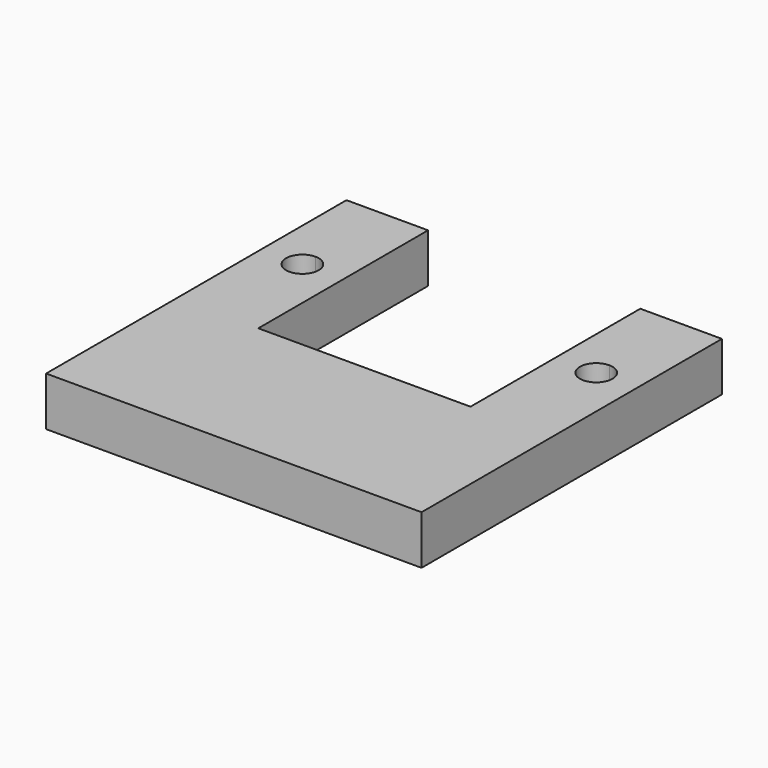
from build123d import *

# Parameters (mm, degrees)
F1_DEPTH = 7.62


with BuildPart() as f1:
    # F0 (on Top) → F1 (new body)
    with BuildSketch(Plane.XY):
        with BuildLine():
            Line((-29.210002, 48.974563), (-29.210002, 15.954563))
            Line((-29.210002, 15.954563), (-22.860002, 15.954563))
            Line((-22.860002, 15.954563), (-22.860002, 29.926767))
            ThreePointArc((-22.860002, 29.926767), (-25.397797, 32.464563), (-22.860002, 35.002358))
            Line((-22.860002, 35.002358), (-22.860002, 48.974563))
            Line((-22.860002, 48.974563), (-29.210002, 48.974563))
        make_face()
        Polygon((-22.860002, 15.954563), (-29.210002, 15.954563), (-29.210002, -9.445437), (29.209998, -9.445437), (29.209998, 15.954563), (22.859998, 15.954563), (16.509998, 15.954563), (-16.510002, 15.954563), align=None)
        with BuildLine():
            Line((-22.860002, 29.926767), (-22.860002, 15.954563))
            Line((-22.860002, 15.954563), (-16.510002, 15.954563))
            Line((-16.510002, 15.954563), (-16.510002, 48.974563))
            Line((-16.510002, 48.974563), (-22.860002, 48.974563))
            Line((-22.860002, 48.974563), (-22.860002, 35.002358))
            ThreePointArc((-22.860002, 35.002358), (-21.065509, 34.259055), (-20.322206, 32.464563))
            ThreePointArc((-20.322206, 32.464563), (-21.065509, 30.67007), (-22.860002, 29.926767))
        make_face()
        with BuildLine():
            Line((16.509998, 48.974563), (16.509998, 15.954563))
            Line((16.509998, 15.954563), (22.859998, 15.954563))
            Line((22.859998, 15.954563), (22.859998, 29.928652))
            ThreePointArc((22.859998, 29.928652), (20.324087, 32.464563), (22.859998, 35.000474))
            Line((22.859998, 35.000474), (22.859998, 48.974563))
            Line((22.859998, 48.974563), (16.509998, 48.974563))
        make_face()
        with BuildLine():
            Line((22.859998, 15.954563), (29.209998, 15.954563))
            Line((29.209998, 15.954563), (29.209998, 48.974563))
            Line((29.209998, 48.974563), (22.859998, 48.974563))
            Line((22.859998, 48.974563), (22.859998, 35.000474))
            ThreePointArc((22.859998, 35.000474), (24.653158, 34.257723), (25.395909, 32.464563))
            ThreePointArc((25.395909, 32.464563), (24.653158, 30.671403), (22.859998, 29.928652))
            Line((22.859998, 29.928652), (22.859998, 15.954563))
        make_face()
    extrude(amount=F1_DEPTH)


solid = f1.part
